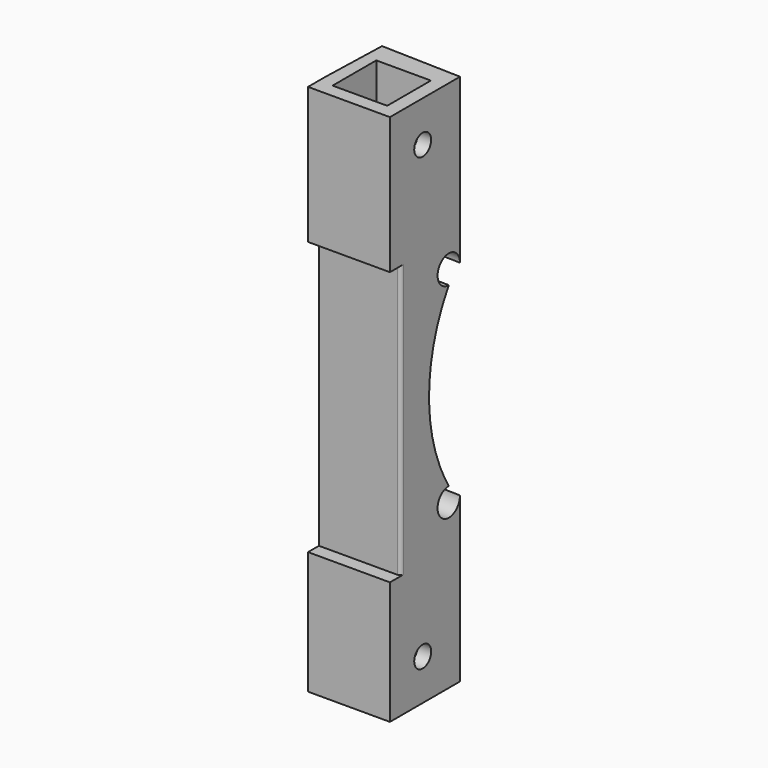
from build123d import *

# Parameters (mm, degrees)
PAD_DEPTH       = 80
POCKET_DEPTH    = 78
POCKET001_DEPTH = 408.7079232475
POCKET002_DEPTH = 408.4326470939
SKETCH004_W     = 433.609177
SKETCH004_H     = 149.2376851805
SKETCH004_W_2   = 114.034424
SKETCH004_H_2   = 150.6867891805
POCKET003_DEPTH = 80.001
SKETCH005_W     = 8
SKETCH005_H     = 8
POCKET004_DEPTH = 10
SKETCH006_W     = 8
SKETCH006_H     = 8
POCKET005_DEPTH = 12
SKETCH007_R     = 1.55
POCKET006_DEPTH = 12.001
POCKET007_DEPTH = 12.001
SKETCH009_W     = 2
SKETCH009_H     = 40
POCKET008_DEPTH = 12.001
FILLET_R        = 0.5


with BuildPart() as part:
    # Sketch → Pad (new body)
    with BuildSketch(Plane.XY):
        Polygon((450, 0), (450, 90), (356, 87.18), (355.64, 99.18), (343.64, 98.82), (344, 86.82), (6, 76.68), (5.64, 88.6800000001), (-6.36, 88.3200000001), (-6, 76.32), (-50, 75), (-50, 0), align=None)
    extrude(amount=PAD_DEPTH)

    # Sketch001 (on Face14 of Pad) → Pocket (cut)
    with BuildSketch(Plane.XY.offset(80)):
        Polygon((-50, 15), (-50, 74), (450, 74), (450, 0), (356, 2.82), (356.3, 12.82), (344.3, 13.18), (344, 3.18), (6, 13.32), (6.3, 23.32), (-5.7, 23.68), (-6, 13.68), align=None)
    extrude(amount=-POCKET_DEPTH, mode=Mode.SUBTRACT)

    # Sketch002 (on Face26 of Pocket) → Pocket001 (cut, through all)
    with BuildSketch(Plane(origin=(355.5953641722, -10.6678609252, 0), x_dir=(0.0299865091, 0.9995503035, 0), z_dir=(0.9995503035, -0.0299865091, 0))):
        with BuildLine():
            ThreePointArc((23.4984280855, 56), (19.9988591841, 57.4495689014), (21.4484280855, 53.95))
            ThreePointArc((21.4484280855, 53.95), (17.8329435114, 41), (21.4484280855, 28.05))
            ThreePointArc((21.4484280855, 28.05), (19.9988591841, 24.5504310986), (23.4984280855, 26))
            Line((23.4984280855, 26), (23.4984280855, 56))
        make_face()
    extrude(amount=-POCKET001_DEPTH, mode=Mode.SUBTRACT)

    # Sketch003 (on Face14 of Pocket001) → Pocket002 (cut, through all)
    with BuildSketch(Plane(origin=(358.2929363573, 10.7487880907, 0), x_dir=(-0.0299865091, 0.9995503035, 0), z_dir=(0.9995503035, 0.0299865091, 0))):
        with BuildLine():
            ThreePointArc((88.470997005, 56), (84.9714281036, 57.4495689014), (86.420997005, 53.95))
            ThreePointArc((86.420997005, 53.95), (82.8055124309, 41), (86.420997005, 28.05))
            ThreePointArc((86.420997005, 28.05), (84.9714281036, 24.5504310986), (88.470997005, 26))
            Line((88.470997005, 26), (88.470997005, 56))
        make_face()
    extrude(amount=-POCKET002_DEPTH, mode=Mode.SUBTRACT)

    # Sketch004 (on Face7 of Pocket002) → Pocket003 (cut, through all)
    with BuildSketch(Plane.XY.offset(80)):
        with Locations((127.1954115, 57.2464115903)):
            Rectangle(SKETCH004_W, SKETCH004_H)
        with Locations((413.017212, 56.5218595903)):
            Rectangle(SKETCH004_W_2, SKETCH004_H_2)
    extrude(amount=-POCKET003_DEPTH, mode=Mode.SUBTRACT)

    # Sketch005 (on Face8 of Pocket003) → Pocket004 (cut)
    with BuildSketch(Plane.XY.offset(80)):
        with Locations((350, 88)):
            Rectangle(SKETCH005_W, SKETCH005_H)
        with Locations((350, 6)):
            Rectangle(SKETCH005_W, SKETCH005_H)
    extrude(amount=-POCKET004_DEPTH, mode=Mode.SUBTRACT)

    # Sketch006 (on Face1 of Pocket004) → Pocket005 (cut)
    with BuildSketch(Plane(origin=(0, 0, 0), x_dir=(1, 0, 0), z_dir=(0, 0, -1))):
        with Locations((350, -6)):
            Rectangle(SKETCH006_W, SKETCH006_H)
        with Locations((350, -88)):
            Rectangle(SKETCH006_W, SKETCH006_H)
    extrude(amount=-POCKET005_DEPTH, mode=Mode.SUBTRACT)

    # Sketch007 (on Face6 of Pocket005) → Pocket006 (cut, through all)
    with BuildSketch(Plane.YZ.offset(356)):
        with Locations((6, 74)):
            Circle(SKETCH007_R)
        with Locations((88, 74)):
            Circle(SKETCH007_R)
        with Locations((88, 8)):
            Circle(SKETCH007_R)
        with Locations((6, 8)):
            Circle(SKETCH007_R)
    extrude(amount=-POCKET006_DEPTH, mode=Mode.SUBTRACT)

    # Sketch008 (on Face2 of Pocket006) → Pocket007 (cut, through all)
    with BuildSketch(Plane(origin=(344, 0, 0), x_dir=(0, -1, 0), z_dir=(-1, 0, 0))):
        Polygon((-136.047638, 92.811623), (-13.18, 92.811623), (-13.18, 2), (21.701658, 2), (21.701658, -28.608723), (-136.047638, -28.608723), align=None)
    extrude(amount=-POCKET007_DEPTH, mode=Mode.SUBTRACT)

    # Sketch009 (on Face13 of Pocket007) → Pocket008 (cut, through all)
    with BuildSketch(Plane.YZ.offset(356)):
        with Locations((1, 40)):
            Rectangle(SKETCH009_W, SKETCH009_H)
    extrude(amount=-POCKET008_DEPTH, mode=Mode.SUBTRACT)

    # Fillet
    fillet_edges = [part.edges().sort_by_distance(p)[0] for p in [
        (356, 2, 40),
    ]]
    fillet(fillet_edges, radius=FILLET_R)


solid = part.part
